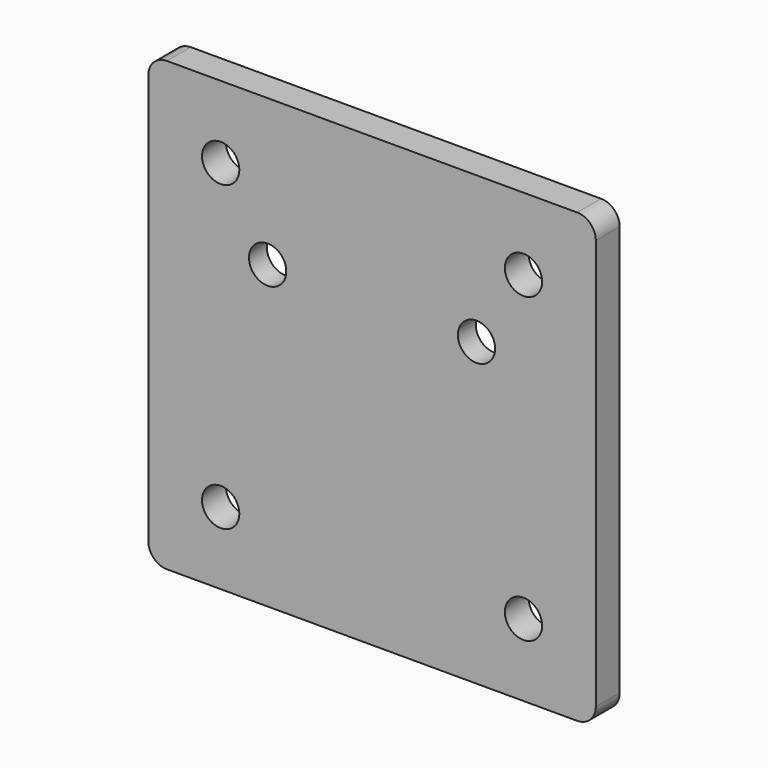
from build123d import *

# Parameters (mm, degrees)
F0_W     = 60
F0_H     = 60
F1_DEPTH = 4
F2_D     = 5
F4_D     = 5
F5_R     = 5.5
F6_DEPTH = 1
F7_R     = 2.5


with BuildPart() as f1:
    # F0 (on Front) → F1 (new body)
    with BuildSketch(Plane.XZ):
        Rectangle(F0_W, F0_H)
    extrude(amount=F1_DEPTH)

    # F2 (through all)
    with Locations(Plane(origin=(0, 0, 0), x_dir=(1, 0, 0), z_dir=(0, 1, 0))):
        with Locations((-20.3, -20.3), (20.3, -20.3), (20.3, 20.3), (-20.3, 20.3)):
            Hole(F2_D / 2)

    # F4 (through all)
    with Locations(Plane.XZ.offset(4)):
        with Locations((-14, 10.35), (14, 10.35)):
            Hole(F4_D / 2)

    # F5 (on face) → F6 (cut)
    with BuildSketch(Plane.XZ):
        with Locations((14, 10.35)):
            Circle(F5_R)
        with Locations((-14, 10.35)):
            Circle(F5_R)
    extrude(amount=F6_DEPTH, mode=Mode.SUBTRACT)

    # F7
    f7_edges = [f1.edges().sort_by_distance(p)[0] for p in [
        (30, -2, 30),
        (30, -2, -30),
        (-30, -2, -30),
        (-30, -2, 30),
    ]]
    fillet(f7_edges, radius=F7_R)


solid = f1.part
